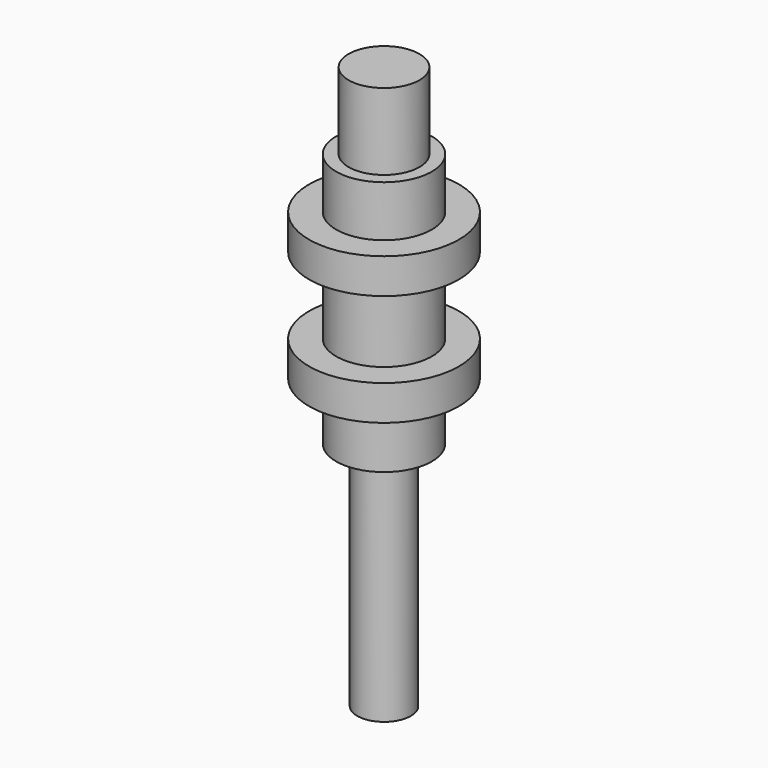
from build123d import *

# Parameters (mm, degrees)
F2_R     = 70.629531
F3_DEPTH = 152.4
F4_R     = 53.301947
F5_DEPTH = 459.74


with BuildPart() as f1:
    # F0 (on Right) → F1 (revolve)
    with BuildSketch(Plane.YZ):
        Polygon((95.25, 323.85), (0, 323.85), (0, -184.15), (95.25, -184.15), (95.25, -69.85), (149.225, -69.85), (149.225, 0), (95.25, 0), (95.25, 152.4), (149.225, 152.4), (149.225, 222.25), (95.25, 222.25), align=None)
    revolve(axis=Axis((0, 0, 7.681185), (0, 0, -1)))

    # F2 (on face) → F3 (join)
    with BuildSketch(Plane.XY.offset(323.85)):
        Circle(F2_R)
    extrude(amount=F3_DEPTH)

    # F4 (on face) → F5 (join)
    with BuildSketch(Plane(origin=(0, 0, -184.15), x_dir=(1, 0, 0), z_dir=(0, 0, -1))):
        Circle(F4_R)
    extrude(amount=F5_DEPTH)


solid = f1.part
